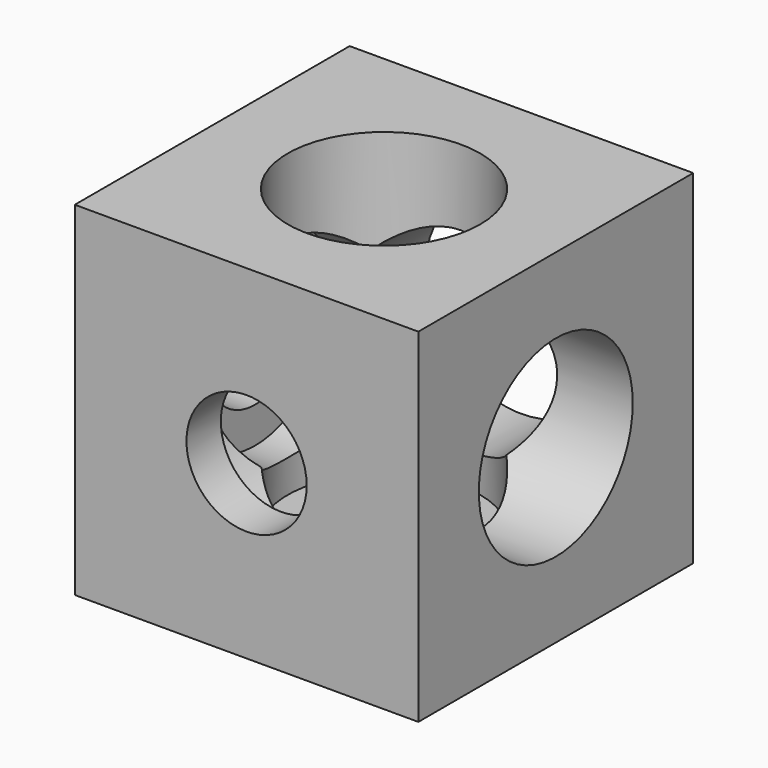
from build123d import *

# Parameters (mm, degrees)
F0_W     = 20
F0_H     = 20
F0_R     = 5.6
F1_DEPTH = 20
F2_START = 17.5
F0_R_2   = 3.5
F2_DEPTH = 2.5
F3_R     = 5.6
F3_R_2   = 3.5
F4_DEPTH = 25
F5_START = -17.5
F5_DEPTH = 2.5
F6_R     = 5.6
F6_R_2   = 3.5
F7_DEPTH = 25
F8_START = -17.5
F8_DEPTH = 2.5


with BuildPart() as f1:
    # F0 (on Front) → F1 (new body)
    with BuildSketch(Plane.XZ):
        Rectangle(F0_W, F0_H)
        Circle(F0_R, mode=Mode.SUBTRACT)
    extrude(amount=F1_DEPTH)

    # F0 (on Front) → F2 (join)
    with BuildSketch(Plane.XZ.offset(F2_START)):
        Circle(F0_R)
        Circle(F0_R_2, mode=Mode.SUBTRACT)
    extrude(amount=F2_DEPTH)

    # F3 (on face) → F4 (cut)
    with BuildSketch(Plane.YZ.offset(10)):
        with Locations((-10, 0)):
            Circle(F3_R)
        with Locations((-10, 0)):
            Circle(F3_R_2, mode=Mode.SUBTRACT)
        with Locations((-10, 0)):
            Circle(F3_R_2)
    extrude(amount=-F4_DEPTH, mode=Mode.SUBTRACT)

    # F3 (on face) → F5 (join)
    with BuildSketch(Plane.YZ.offset(10).offset(F5_START)):
        with Locations((-10, 0)):
            Circle(F3_R)
        with Locations((-10, 0)):
            Circle(F3_R_2, mode=Mode.SUBTRACT)
    extrude(amount=-F5_DEPTH)

    # F6 (on face) → F7 (cut)
    with BuildSketch(Plane.XY.offset(10)):
        with Locations((0, -10)):
            Circle(F6_R)
        with Locations((0, -10)):
            Circle(F6_R_2, mode=Mode.SUBTRACT)
        with Locations((0, -10)):
            Circle(F6_R_2)
    extrude(amount=-F7_DEPTH, mode=Mode.SUBTRACT)

    # F6 (on face) → F8 (join)
    with BuildSketch(Plane.XY.offset(10).offset(F8_START)):
        with Locations((0, -10)):
            Circle(F6_R)
        with Locations((0, -10)):
            Circle(F6_R_2, mode=Mode.SUBTRACT)
    extrude(amount=-F8_DEPTH)


solid = f1.part
